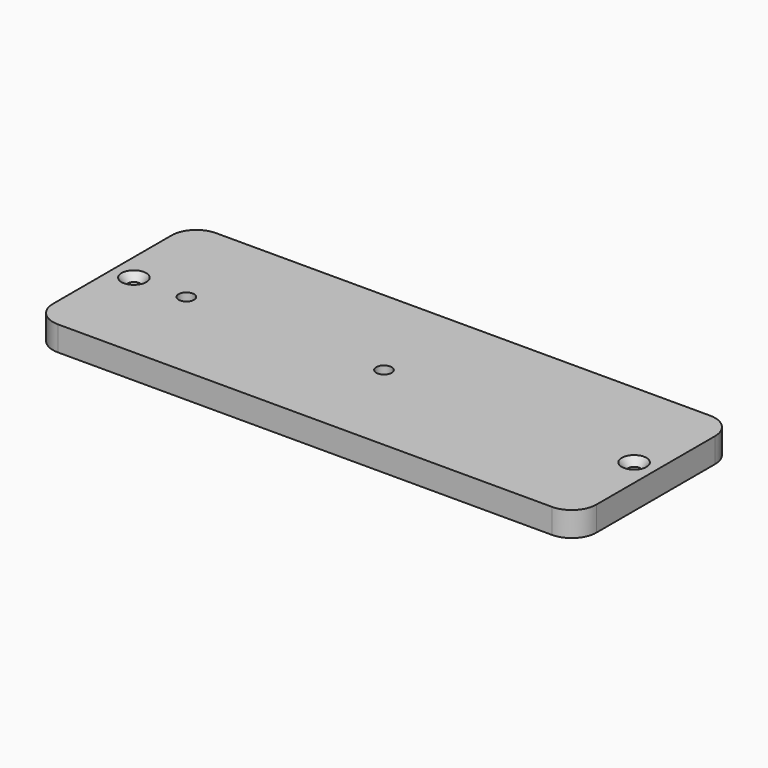
from build123d import *

# Parameters (mm, degrees)
F0_W           = 279.4
F0_H           = 101.6
F1_DEPTH       = 12.7
F3_R           = 12.7
F5_D           = 3.4544
F5_DEPTH       = 7.3025
F5_TIP         = 1.0378064612
F6_D           = 7.9375
F7_D           = 6.35
F7_DEPTH       = 25.4
F7_CSINK_D     = 12.7
F7_CSINK_ANGLE = 82
F7_TIP         = 1.9077324654


with BuildPart() as f1:
    # F0 (on Top) → F1 (new body)
    with BuildSketch(Plane.XY):
        with Locations((-50.6414052727, 40.3991388157)):
            Rectangle(F0_W, F0_H)
    extrude(amount=F1_DEPTH)

    # F3
    f3_edges = [f1.edges().sort_by_distance(p)[0] for p in [
        (89.058595, 91.199139, 6.35),
        (89.058595, -10.400861, 6.35),
        (-190.341405, 91.199139, 6.35),
        (-190.341405, -10.400861, 6.35),
    ]]
    fillet(f3_edges, radius=F3_R)

    # F5
    with Locations(Plane(origin=(0, 0, 0), x_dir=(1, 0, 0), z_dir=(0, 0, -1))):
        with Locations((-177.6414052727, -2.2991388157), (-177.6414052727, -78.4991388157), (76.3585947273, -2.2991388157), (76.3585947273, -78.4991388157)):
            Hole(F5_D / 2, depth=F5_DEPTH)
            with Locations((0, 0, -(F5_DEPTH + F5_TIP / 2))):  # 118° drill point
                Cone(0, F5_D / 2, F5_TIP, mode=Mode.SUBTRACT)

    # F6 (through all)
    with Locations(Plane.XY.offset(12.7)):
        with Locations((-152.2414052727, 40.3991388157), (-50.6414052727, 40.3991388157)):
            Hole(F6_D / 2)

    # F7
    with Locations(Plane.XY.offset(12.7)):
        with Locations((-179.2289052727, 40.3991388157), (77.9460947273, 40.3991388157)):
            CounterSinkHole(F7_D / 2, F7_CSINK_D / 2, depth=F7_DEPTH, counter_sink_angle=F7_CSINK_ANGLE)
            with Locations((0, 0, -(F7_DEPTH + F7_TIP / 2))):  # 118° drill point
                Cone(0, F7_D / 2, F7_TIP, mode=Mode.SUBTRACT)


solid = f1.part
